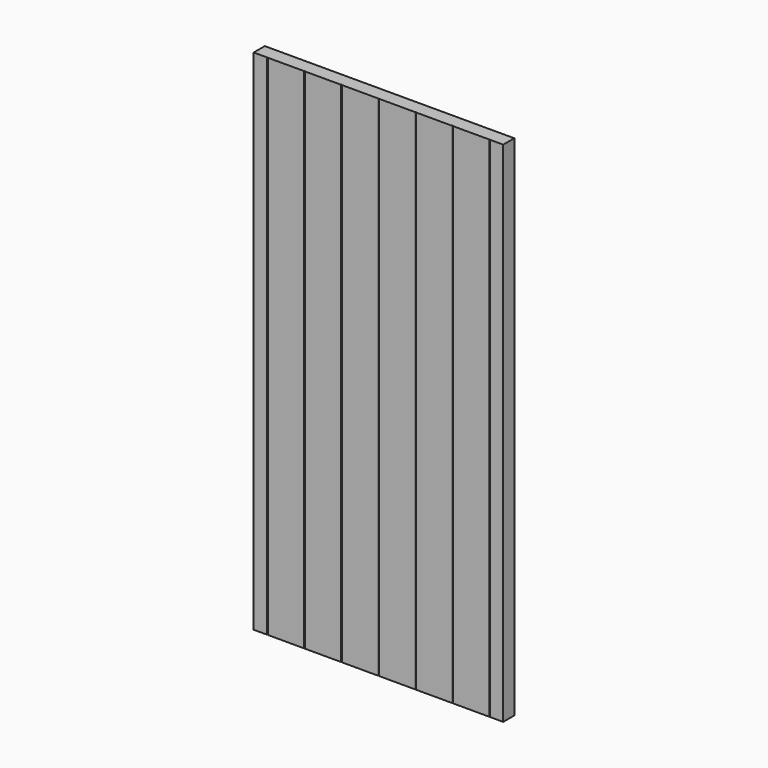
from build123d import *

# Parameters (mm, degrees)
F1_DEPTH = 698.5
F2_W     = 508
F2_H     = 137.227848
F2_H_2   = 195.285798
F3_DEPTH = 1143
F4_R     = 0.79375
F5_DEPTH = 25.4


with BuildPart() as f1:
    # F0 (on Top) → F1 (new body)
    with BuildSketch(Plane.XY):
        with BuildLine():
            Line((458.216, -9.525), (508, -9.525))
            Line((508, -9.525), (508, 9.525))
            Line((508, 9.525), (-508, 9.525))
            Line((-508, 9.525), (-508, -8.509))
            ThreePointArc((-508, -8.509), (-507.70242, -9.22742), (-506.984, -9.525))
            Line((-506.984, -9.525), (-458.216, -9.525))
            ThreePointArc((-458.216, -9.525), (-457.49758, -9.22742), (-457.2, -8.509))
            ThreePointArc((-457.2, -8.509), (-456.90242, -9.22742), (-456.184, -9.525))
            Line((-456.184, -9.525), (-407.416, -9.525))
            ThreePointArc((-407.416, -9.525), (-406.69758, -9.22742), (-406.4, -8.509))
            ThreePointArc((-406.4, -8.509), (-406.10242, -9.22742), (-405.384, -9.525))
            Line((-405.384, -9.525), (-356.616, -9.525))
            ThreePointArc((-356.616, -9.525), (-355.89758, -9.22742), (-355.6, -8.509))
            ThreePointArc((-355.6, -8.509), (-355.30242, -9.22742), (-354.584, -9.525))
            Line((-354.584, -9.525), (-305.816, -9.525))
            ThreePointArc((-305.816, -9.525), (-305.09758, -9.22742), (-304.8, -8.509))
            ThreePointArc((-304.8, -8.509), (-304.50242, -9.22742), (-303.784, -9.525))
            Line((-303.784, -9.525), (-255.016, -9.525))
            ThreePointArc((-255.016, -9.525), (-254.29758, -9.22742), (-254, -8.509))
            ThreePointArc((-254, -8.509), (-253.70242, -9.22742), (-252.984, -9.525))
            Line((-252.984, -9.525), (-204.216, -9.525))
            ThreePointArc((-204.216, -9.525), (-203.49758, -9.22742), (-203.2, -8.509))
            ThreePointArc((-203.2, -8.509), (-202.90242, -9.22742), (-202.184, -9.525))
            Line((-202.184, -9.525), (-153.416, -9.525))
            ThreePointArc((-153.416, -9.525), (-152.69758, -9.22742), (-152.4, -8.509))
            ThreePointArc((-152.4, -8.509), (-152.10242, -9.22742), (-151.384, -9.525))
            Line((-151.384, -9.525), (-102.616, -9.525))
            ThreePointArc((-102.616, -9.525), (-101.89758, -9.22742), (-101.6, -8.509))
            ThreePointArc((-101.6, -8.509), (-101.30242, -9.22742), (-100.584, -9.525))
            Line((-100.584, -9.525), (-51.816, -9.525))
            ThreePointArc((-51.816, -9.525), (-51.09758, -9.22742), (-50.8, -8.509))
            ThreePointArc((-50.8, -8.509), (-50.50242, -9.22742), (-49.784, -9.525))
            Line((-49.784, -9.525), (-1.016, -9.525))
            ThreePointArc((-1.016, -9.525), (-0.29758, -9.22742), (0, -8.509))
            ThreePointArc((0, -8.509), (0.29758, -9.22742), (1.016, -9.525))
            Line((1.016, -9.525), (49.784, -9.525))
            ThreePointArc((49.784, -9.525), (50.50242, -9.22742), (50.8, -8.509))
            ThreePointArc((50.8, -8.509), (51.09758, -9.22742), (51.816, -9.525))
            Line((51.816, -9.525), (100.584, -9.525))
            ThreePointArc((100.584, -9.525), (101.30242, -9.22742), (101.6, -8.509))
            ThreePointArc((101.6, -8.509), (101.89758, -9.22742), (102.616, -9.525))
            Line((102.616, -9.525), (151.384, -9.525))
            ThreePointArc((151.384, -9.525), (152.10242, -9.22742), (152.4, -8.509))
            ThreePointArc((152.4, -8.509), (152.69758, -9.22742), (153.416, -9.525))
            Line((153.416, -9.525), (202.184, -9.525))
            ThreePointArc((202.184, -9.525), (202.90242, -9.22742), (203.2, -8.509))
            ThreePointArc((203.2, -8.509), (203.49758, -9.22742), (204.216, -9.525))
            Line((204.216, -9.525), (252.984, -9.525))
            ThreePointArc((252.984, -9.525), (253.70242, -9.22742), (254, -8.509))
            ThreePointArc((254, -8.509), (254.29758, -9.22742), (255.016, -9.525))
            Line((255.016, -9.525), (303.784, -9.525))
            ThreePointArc((303.784, -9.525), (304.50242, -9.22742), (304.8, -8.509))
            ThreePointArc((304.8, -8.509), (305.09758, -9.22742), (305.816, -9.525))
            Line((305.816, -9.525), (354.584, -9.525))
            ThreePointArc((354.584, -9.525), (355.30242, -9.22742), (355.6, -8.509))
            ThreePointArc((355.6, -8.509), (355.89758, -9.22742), (356.616, -9.525))
            Line((356.616, -9.525), (405.384, -9.525))
            ThreePointArc((405.384, -9.525), (406.10242, -9.22742), (406.4, -8.509))
            ThreePointArc((406.4, -8.509), (406.69758, -9.22742), (407.416, -9.525))
            Line((407.416, -9.525), (456.184, -9.525))
            ThreePointArc((456.184, -9.525), (456.90242, -9.22742), (457.2, -8.509))
            ThreePointArc((457.2, -8.509), (457.49758, -9.22742), (458.216, -9.525))
        make_face()
        with BuildLine():
            ThreePointArc((-506.984, -9.525), (-507.70242, -9.22742), (-508, -8.509))
            Line((-508, -8.509), (-508, -9.525))
            Line((-508, -9.525), (-506.984, -9.525))
        make_face()
    extrude(amount=F1_DEPTH)

    # F2 (on Top) → F3 (cut)
    with BuildSketch(Plane.XY):
        with Locations((425.45, -20.971623)):
            Rectangle(F2_W, F2_H)
        with Locations((-425.45, -39.444607)):
            Rectangle(F2_W, F2_H_2)
    extrude(amount=F3_DEPTH, mode=Mode.SUBTRACT)

    # F4 (on Front) → F5 (cut)
    with BuildSketch(Plane.XZ):
        with Locations((161.925, 623.09375)):
            Circle(F4_R)
        with Locations((149.225, 611.1875)):
            Circle(F4_R)
        with Locations((161.925, 599.28125)):
            Circle(F4_R)
        with Locations((161.925, 99.21875)):
            Circle(F4_R)
        with Locations((149.225, 87.3125)):
            Circle(F4_R)
        with Locations((161.925, 75.40625)):
            Circle(F4_R)
    extrude(amount=-F5_DEPTH, mode=Mode.SUBTRACT)


solid = f1.part
